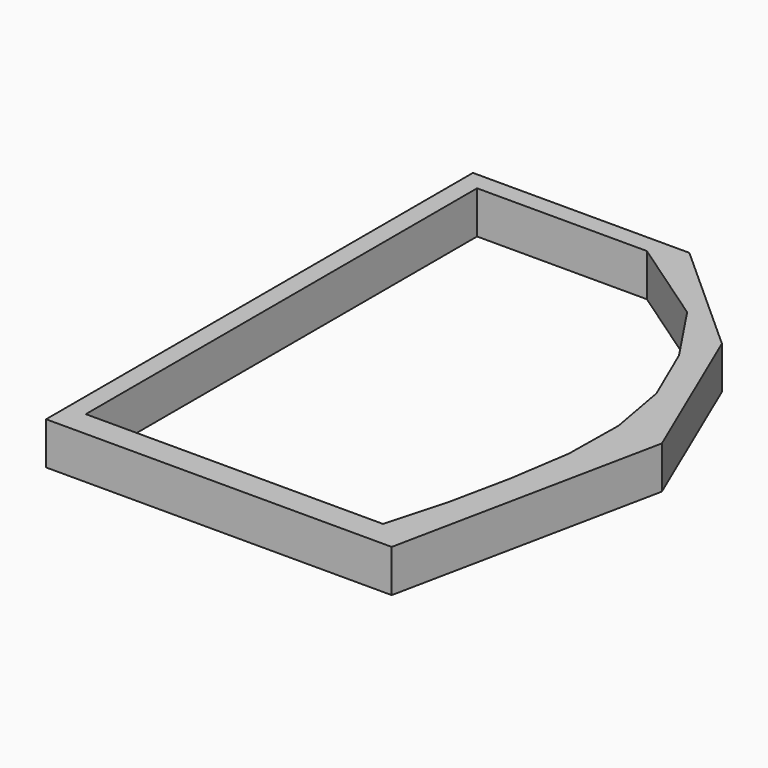
from build123d import *

# Parameters (mm, degrees)
PAD_DEPTH = 5


with BuildPart() as part:
    # Sketch → Pad (new body)
    with BuildSketch(Plane.XY):
        Polygon((-2.215162, 59.759811), (-2.215162, -3.075415), (38.48941, -3.075415), (45.010048, 28.539799), (36.908657, 47.508923), (23.274607, 59.759811), align=None)
        Polygon((0, 0), (35, 0), (37, 7.2), (38.5, 14.4), (39.6, 21.6), (39.7, 28.8), (38.4, 36), (35.3, 43.2), (30.5, 50.4), (20, 57.6), (0, 57.6), align=None, mode=Mode.SUBTRACT)
    extrude(amount=PAD_DEPTH)


solid = part.part
